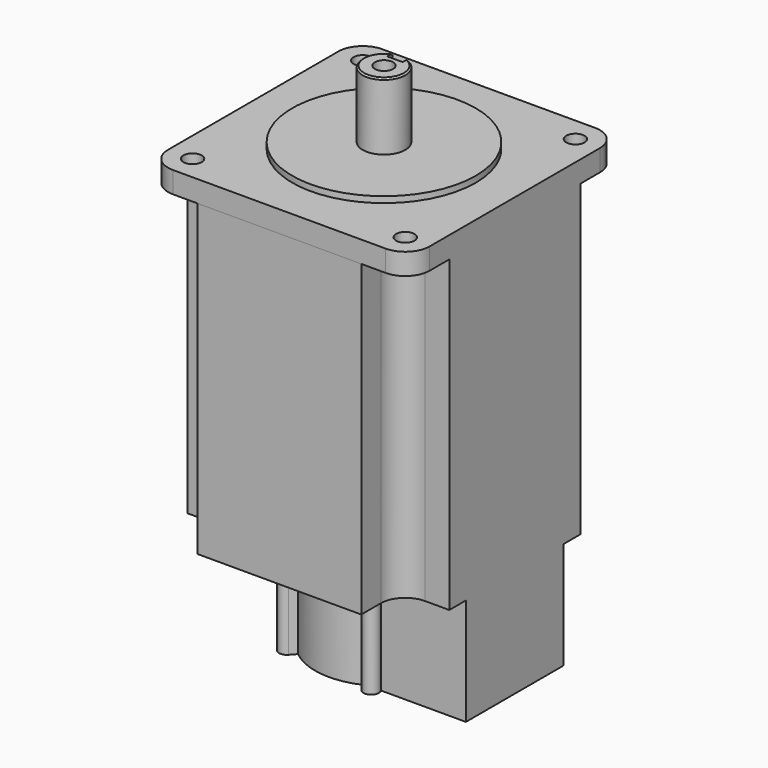
from build123d import *

# Parameters (mm, degrees)
SKETCH002_R  = 7
PAD_DEPTH    = 22
SKETCH001_R  = 30
PAD001_DEPTH = 2
SKETCH_R     = 3
PAD002_DEPTH = 7
PAD003_DEPTH = 101
PAD004_DEPTH = 35
SKETCH007_R  = 3
SKETCH007_W  = 5
SKETCH007_H  = 5
POCKET_DEPTH = 15
CHAMFER_SIZE = 0.5


with BuildPart() as part:
    # Sketch002 → Pad (new body)
    with BuildSketch(Plane.XY):
        Circle(SKETCH002_R)
    extrude(amount=PAD_DEPTH)

    # Sketch001 → Pad001 (new body)
    with BuildSketch(Plane(origin=(0, 0, 0), x_dir=(1, 0, 0), z_dir=(0, 0, -1))):
        Circle(SKETCH001_R)
    extrude(amount=PAD001_DEPTH)

    # Sketch → Pad002 (new body)
    with BuildSketch(Plane(origin=(0, 0, -2), x_dir=(1, 0, 0), z_dir=(0, 0, -1))):
        with BuildLine():
            ThreePointArc((-34.800013, 42.799987), (-40.456858, 40.456845), (-42.8, 34.800001))
            Line((-42.8, 34.800001), (-42.8, -34.800026))
            ThreePointArc((-42.8, -34.800026), (-40.456849, -40.456854), (-34.800013, -42.799987))
            Line((-34.800013, -42.799987), (34.800013, -42.799987))
            ThreePointArc((34.800013, -42.799987), (40.456853, -40.45685), (42.8, -34.800013))
            Line((42.8, 34.800013), (42.8, -34.800013))
            ThreePointArc((42.8, 34.800013), (40.456853, 40.45685), (34.800013, 42.799987))
            Line((-34.800013, 42.799987), (34.800013, 42.799987))
        make_face()
        with Locations((-34.800013, 34.8)):
            Circle(SKETCH_R, mode=Mode.SUBTRACT)
        with Locations((34.800013, 34.8)):
            Circle(SKETCH_R, mode=Mode.SUBTRACT)
        with Locations((34.800013, -34.8)):
            Circle(SKETCH_R, mode=Mode.SUBTRACT)
        with Locations((-34.800013, -34.8)):
            Circle(SKETCH_R, mode=Mode.SUBTRACT)
    extrude(amount=PAD002_DEPTH)

    # Sketch003 → Pad003 (new body)
    with BuildSketch(Plane(origin=(0, 0, -9), x_dir=(1, 0, 0), z_dir=(0, 0, -1))):
        with BuildLine():
            ThreePointArc((-34.799995, 26.8), (-29.143142, 29.143149), (-26.8, 34.800005))
            Line((-26.8, 34.800005), (-26.8, 42.8))
            Line((-26.8, 42.8), (26.8, 42.8))
            Line((26.8, 42.8), (26.8, 34.800007))
            ThreePointArc((26.8, 34.800007), (29.143141, 29.14315), (34.799995, 26.8))
            Line((34.799995, 26.8), (42.8, 26.8))
            Line((42.8, 26.8), (42.8, -26.8))
            Line((42.8, -26.8), (34.799993, -26.8))
            ThreePointArc((34.799993, -26.8), (29.143141, -29.143151), (26.8, -34.800007))
            Line((26.8, -42.8), (26.8, -34.800007))
            Line((-26.8, -42.8), (26.8, -42.8))
            Line((-26.8, -34.800007), (-26.8, -42.8))
            ThreePointArc((-26.8, -34.800007), (-29.143141, -29.143151), (-34.799993, -26.8))
            Line((-42.8, -26.8), (-34.799993, -26.8))
            Line((-42.8, 26.8), (-42.8, -26.8))
            Line((-34.799995, 26.8), (-42.8, 26.8))
        make_face()
    extrude(amount=PAD003_DEPTH)

    # Sketch006 → Pad004 (new body)
    with BuildSketch(Plane(origin=(0, 0, -110), x_dir=(1, 0, 0), z_dir=(0, 0, -1))):
        with BuildLine():
            ThreePointArc((15, 20), (14.220252, 23.537936), (10.725728, 22.582266))
            Line((10.725728, 22.582266), (9.539937, 20.377429))
            ThreePointArc((9.539937, 20.377429), (-2.71517, 22.335574), (-14.144211, 17.498322))
            Line((-15.823725, 19.354837), (-14.144211, 17.498322))
            ThreePointArc((-15.823725, 19.354837), (-19.445436, 19.445436), (-19.354837, 15.823725))
            Line((-19.354837, 15.823725), (-17.498325, 14.144208))
            ThreePointArc((-17.498325, 14.144208), (-22.5, -1e-05), (-17.498313, -14.144223))
            Line((-17.498313, -14.144223), (-19.354837, -15.823725))
            ThreePointArc((-19.354837, -15.823725), (-19.445436, -19.445436), (-15.823725, -19.354837))
            Line((-14.144223, -17.498313), (-15.823725, -19.354837))
            ThreePointArc((-14.144223, -17.498313), (-2.715178, -22.335573), (9.539937, -20.377429))
            Line((9.539937, -20.377429), (10.725728, -22.582266))
            ThreePointArc((10.725728, -22.582266), (14.220252, -23.537936), (15, -20))
            Line((42.8, -20), (15, -20))
            Line((42.8, 20), (42.8, -20))
            Line((15, 20), (42.8, 20))
        make_face()
    extrude(amount=PAD004_DEPTH)

    # Sketch007 → Pocket (cut)
    with BuildSketch(Plane.XY.offset(22)):
        Circle(SKETCH007_R)
        with Locations((0, 7)):
            Rectangle(SKETCH007_W, SKETCH007_H)
    extrude(amount=-POCKET_DEPTH, mode=Mode.SUBTRACT)

    # Chamfer
    chamfer_edges = [part.edges().sort_by_distance(p)[0] for p in [
        (-3.968627, -5.766281, 22),
    ]]
    chamfer(chamfer_edges, length=CHAMFER_SIZE)


solid = part.part
